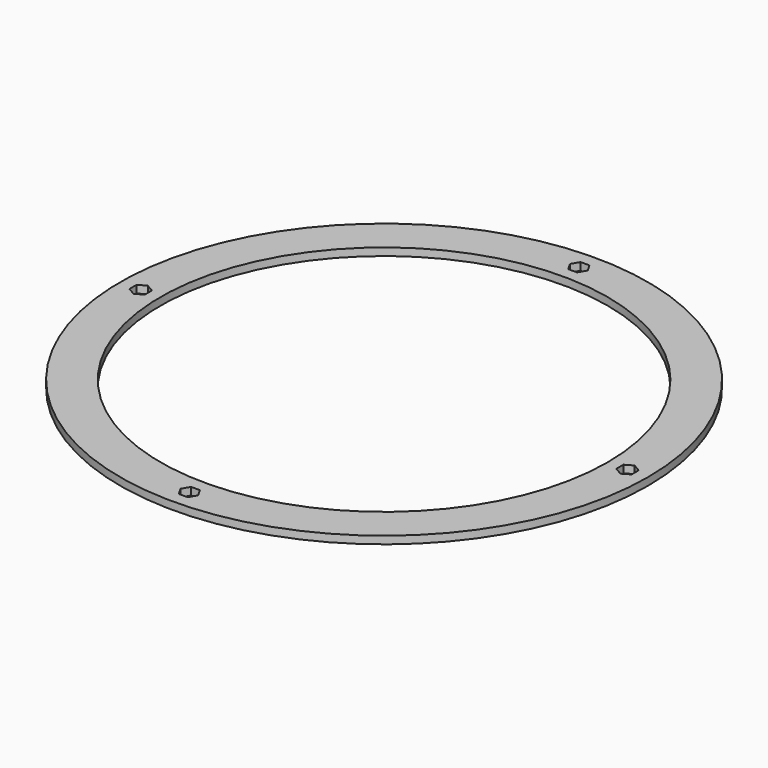
from build123d import *

# Parameters (mm, degrees)
F0_R     = 173.5
F0_R_2   = 147
F1_DEPTH = 5


with BuildPart() as f1:
    # F0 (on Top) → F1 (new body)
    with BuildSketch(Plane.XY):
        Circle(F0_R)
        Polygon((-5.831238, -160), (-2.915619, -154.95), (2.915619, -154.95), (5.831238, -160), (2.915619, -165.05), (-2.915619, -165.05), align=None, mode=Mode.SUBTRACT)
        Polygon((-160, 5.831238), (-154.95, 2.915619), (-154.95, -2.915619), (-160, -5.831238), (-165.05, -2.915619), (-165.05, 2.915619), align=None, mode=Mode.SUBTRACT)
        Circle(F0_R_2, mode=Mode.SUBTRACT)
        Polygon((160, -5.831238), (154.95, -2.915619), (154.95, 2.915619), (160, 5.831238), (165.05, 2.915619), (165.05, -2.915619), align=None, mode=Mode.SUBTRACT)
        Polygon((5.831238, 160), (2.915619, 154.95), (-2.915619, 154.95), (-5.831238, 160), (-2.915619, 165.05), (2.915619, 165.05), align=None, mode=Mode.SUBTRACT)
    extrude(amount=F1_DEPTH)


solid = f1.part
